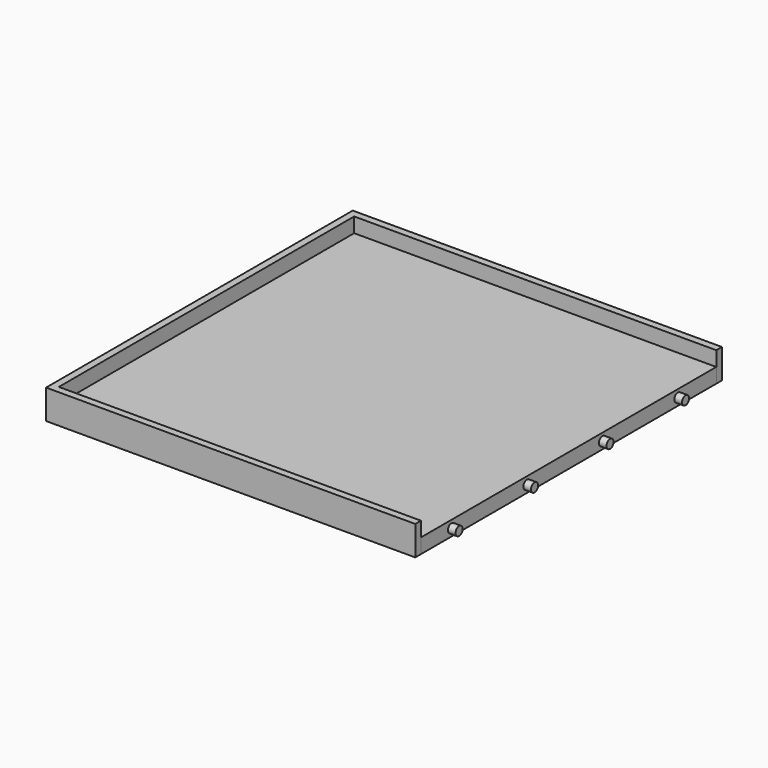
from build123d import *

# Parameters (mm, degrees)
F0_W     = 152.908
F0_H     = 159.004
F1_DEPTH = 6.35
F2_DEPTH = 12.7
F3_R     = 1.905
F4_DEPTH = 6.35
F0_W_2   = 3.047997
F5_DEPTH = 6.35


with BuildPart() as f1:
    # F0 (on Top) → F1 (new body)
    with BuildSketch(Plane.XY):
        Rectangle(F0_W, F0_H)
    extrude(amount=F1_DEPTH)

    # F0 (on Top) → F2 (join)
    with BuildSketch(Plane.XY):
        Polygon((79.501997, -79.502), (76.454, -79.502), (-76.454, -79.502), (-76.454, 79.502), (76.454, 79.502), (79.501997, 79.502), (79.501997, 82.549997), (-79.501997, 82.549997), (-79.501997, -82.549997), (79.501997, -82.549997), align=None)
    extrude(amount=F2_DEPTH)

    # F3 (on face) → F4 (join)
    with BuildSketch(Plane.YZ.offset(76.454)):
        with Locations((-63.078232, 3.175)):
            Circle(F3_R)
        with Locations((-22.438232, 3.175)):
            Circle(F3_R)
        with Locations((18.201768, 3.175)):
            Circle(F3_R)
        with Locations((58.841768, 3.175)):
            Circle(F3_R)
    extrude(amount=F4_DEPTH)

    # F0 (on Top) → F5 (join)
    with BuildSketch(Plane.XY):
        with Locations((77.977998, 0)):
            Rectangle(F0_W_2, F0_H)
    extrude(amount=F5_DEPTH)


solid = f1.part
